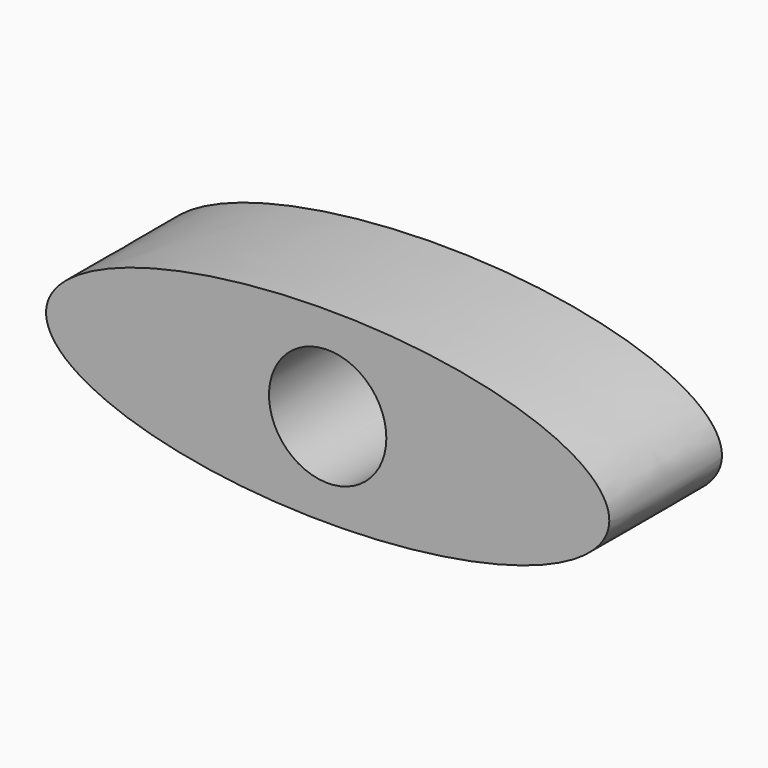
from build123d import *

# Parameters (mm, degrees)
F0_R     = 6.25
F1_DEPTH = 15


with BuildPart() as f1:
    # F0 (on Front) → F1 (new body)
    with BuildSketch(Plane.XZ):
        with BuildLine():
            add(Edge.make_bspline(
                [(30, 0), (30, 17.320508), (-15, 8.660254), (-60, 0), (-15, -8.660254), (30, -17.320508), (30, 0)],
                knots=[0, 0, 0, 2.094395, 2.094395, 4.18879, 4.18879, 6.283185, 6.283185, 6.283185], degree=2, weights=[1, 0.5, 1, 0.5, 1, 0.5, 1]))
        make_face()
        Circle(F0_R, mode=Mode.SUBTRACT)
    extrude(amount=-F1_DEPTH)


solid = f1.part
